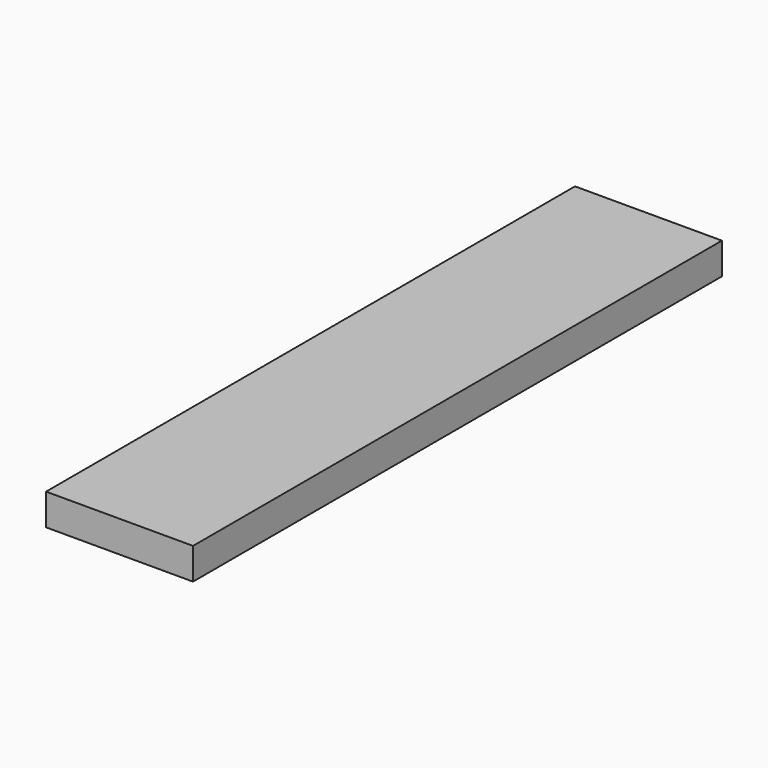
from build123d import *

# Parameters (mm, degrees)
SKETCH_W  = 88.9
SKETCH_H  = 400
PAD_DEPTH = 19.05


with BuildPart() as part:
    # Sketch → Pad (new body)
    with BuildSketch(Plane.XY):
        with Locations((44.45, 200)):
            Rectangle(SKETCH_W, SKETCH_H)
    extrude(amount=PAD_DEPTH)


solid = part.part
